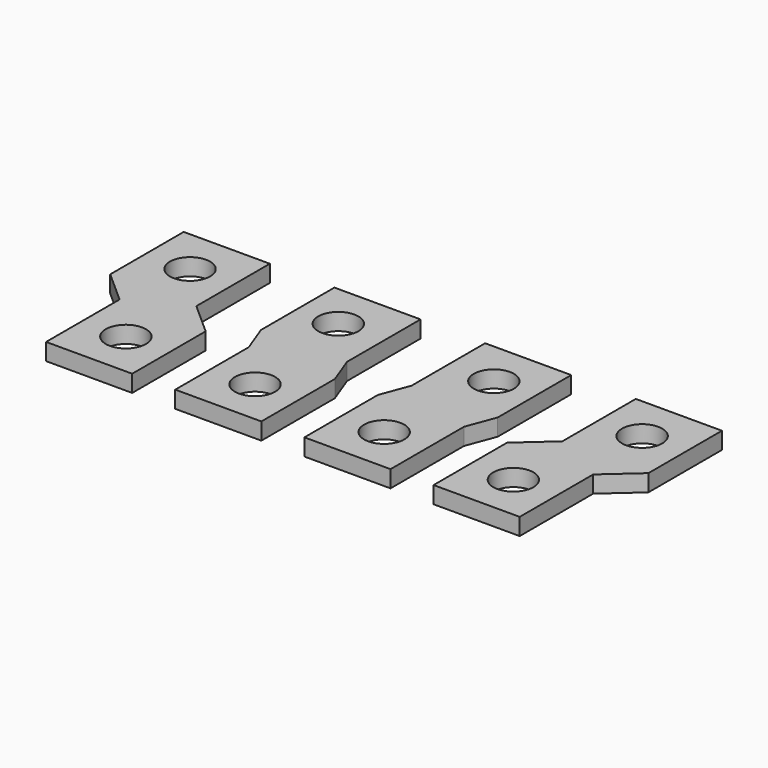
from build123d import *

# Parameters (mm, degrees)
F0_R     = 7
F1_DEPTH = 5.9


with BuildPart() as f1:
    # F0 (on Top) → F1 (new body)
    with BuildSketch(Plane.XY):
        Polygon((-36.656843, 5), (-36.656843, 37), (-66.656843, 37), (-66.656843, 5), (-55.406843, -5), (-55.406843, -37), (-40.406843, -37), (-25.406843, -37), (-25.406843, -5), align=None)
        with BuildLine():
            ThreePointArc((-33.406843, -21), (-35.457095, -25.949747), (-40.406843, -28))
            ThreePointArc((-40.406843, -28), (-45.35659, -16.050253), (-33.406843, -21))
        make_face(mode=Mode.SUBTRACT)
        with Locations((-51.656843, 21)):
            Circle(F0_R, mode=Mode.SUBTRACT)
        Polygon((15.843157, 5), (15.843157, 37), (-14.156843, 37), (-14.156843, 5), (-10.406843, -5), (-10.406843, -37), (19.593157, -37), (19.593157, -5), align=None)
        with Locations((4.593157, -21)):
            Circle(F0_R, mode=Mode.SUBTRACT)
        with Locations((0, 21)):
            Circle(F0_R, mode=Mode.SUBTRACT)
        Polygon((68.343157, 5), (68.343157, 37), (38.343157, 37), (38.343157, 5), (34.593157, -5), (34.593157, -37), (64.593157, -37), (64.593157, -5), align=None)
        with Locations((49.593157, -21)):
            Circle(F0_R, mode=Mode.SUBTRACT)
        with Locations((54.186315, 21)):
            Circle(F0_R, mode=Mode.SUBTRACT)
        Polygon((120.843157, 37), (90.843157, 37), (90.843157, 5), (79.593157, -5), (79.593157, -37), (109.593157, -37), (109.593157, -5), (120.843157, 5), align=None)
        with Locations((94.593157, -21)):
            Circle(F0_R, mode=Mode.SUBTRACT)
        with Locations((105.843157, 21)):
            Circle(F0_R, mode=Mode.SUBTRACT)
    extrude(amount=F1_DEPTH)


solid = f1.part
